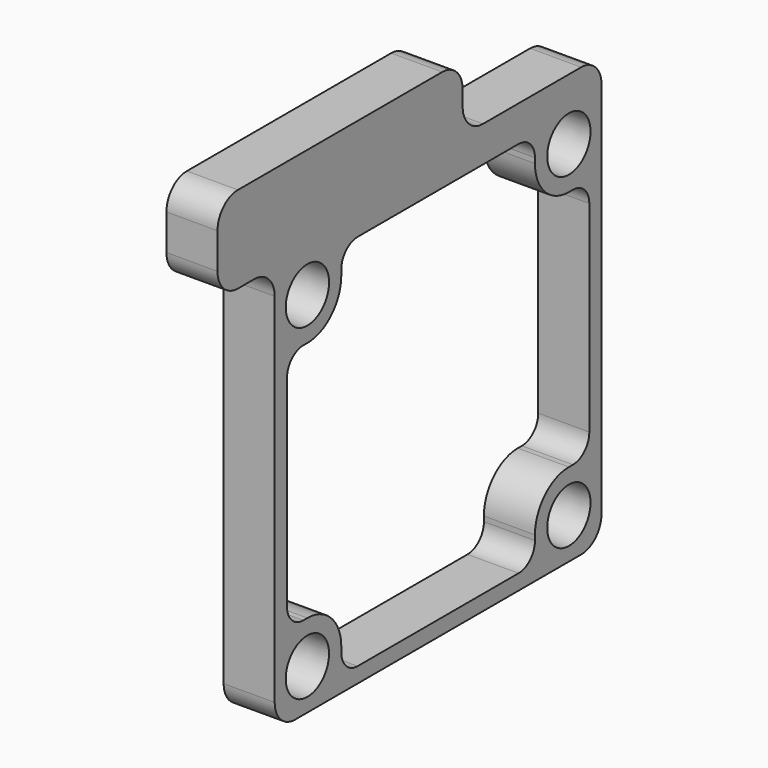
from build123d import *

# Parameters (mm, degrees)
F0_R     = 2.15
F0_W     = 17
F0_H     = 2
F0_W_2   = 23
F1_DEPTH = 5
F2_R     = 2.65
F3_DEPTH = 3.8
F3_TAPER = 1.5
F4_D     = 3.5
F5_R     = 2.5


with BuildPart() as f1:
    # F0 (on Right) → F1 (new body)
    with BuildSketch(Plane.YZ):
        Polygon((-20, -20), (20, -20), (20, 20), (3, 20), (-20, 20), align=None)
        with Locations((-16, -16)):
            Circle(F0_R, mode=Mode.SUBTRACT)
        with Locations((16, -16)):
            Circle(F0_R, mode=Mode.SUBTRACT)
        with BuildLine():
            Line((11.85, 16.5), (11.85, 16))
            ThreePointArc((11.85, 16), (13.0655068581, 13.0655068581), (16, 11.85))
            Line((16, 11.85), (16.5, 11.85))
            ThreePointArc((16.5, 11.85), (17.9142135624, 11.2642135624), (18.5, 9.85))
            Line((18.5, 9.85), (18.5, -9.85))
            ThreePointArc((18.5, -9.85), (17.9142135624, -11.2642135624), (16.5, -11.85))
            Line((16.5, -11.85), (16, -11.85))
            ThreePointArc((16, -11.85), (13.0655068581, -13.0655068581), (11.85, -16))
            Line((11.85, -16), (11.85, -16.5))
            ThreePointArc((11.85, -16.5), (11.2642135624, -17.9142135624), (9.85, -18.5))
            Line((9.85, -18.5), (-9.85, -18.5))
            ThreePointArc((-9.85, -18.5), (-11.2642135624, -17.9142135624), (-11.85, -16.5))
            Line((-11.85, -16.5), (-11.85, -16))
            ThreePointArc((-11.85, -16), (-13.0655068581, -13.0655068581), (-16, -11.85))
            Line((-16, -11.85), (-16.5, -11.85))
            ThreePointArc((-16.5, -11.85), (-17.9142135624, -11.2642135624), (-18.5, -9.85))
            Line((-18.5, -9.85), (-18.5, 9.85))
            ThreePointArc((-18.5, 9.85), (-17.9142135624, 11.2642135624), (-16.5, 11.85))
            Line((-16.5, 11.85), (-16, 11.85))
            ThreePointArc((-16, 11.85), (-13.0655068581, 13.0655068581), (-11.85, 16))
            Line((-11.85, 16), (-11.85, 16.5))
            ThreePointArc((-11.85, 16.5), (-11.2642135624, 17.9142135624), (-9.85, 18.5))
            Line((-9.85, 18.5), (9.85, 18.5))
            ThreePointArc((9.85, 18.5), (11.2642135624, 17.9142135624), (11.85, 16.5))
        make_face(mode=Mode.SUBTRACT)
        with Locations((-16, 16)):
            Circle(F0_R, mode=Mode.SUBTRACT)
        with Locations((16, 16)):
            Circle(F0_R, mode=Mode.SUBTRACT)
        with Locations((11.5, 21)):
            Rectangle(F0_W, F0_H)
        with Locations((-8.5, 21)):
            Rectangle(F0_W_2, F0_H)
        Polygon((-27, 20), (-20, 20), (-20, 22), (3, 22), (3, 28.5), (-27, 28.5), align=None)
        with Locations((-16, 16)):
            Circle(F0_R)
        with Locations((16, 16)):
            Circle(F0_R)
        with Locations((-16, -16)):
            Circle(F0_R)
        with Locations((16, -16)):
            Circle(F0_R)
    extrude(amount=F1_DEPTH)

    # F2 (on face) → F3 (cut)
    with BuildSketch(Plane.YZ.offset(5)):
        with Locations((-16, 16)):
            Circle(F2_R)
        with Locations((16, 16)):
            Circle(F2_R)
        with Locations((16, -16)):
            Circle(F2_R)
        with Locations((-16, -16)):
            Circle(F2_R)
    extrude(amount=-F3_DEPTH, taper=F3_TAPER, mode=Mode.SUBTRACT)

    # F4 (through all)
    with Locations(Plane(origin=(0, 0, 0), x_dir=(0, 1, 0), z_dir=(-1, 0, 0))):
        with Locations((-16, -16), (16, -16), (16, 16), (-16, 16)):
            Hole(F4_D / 2)

    # F5
    f5_edges = [f1.edges().sort_by_distance(p)[0] for p in [
        (2.5, 3, 22),
        (2.5, 3, 28.5),
        (2.5, 20, 22),
        (2.5, 20, -20),
        (2.5, -20, -20),
        (2.5, -20, 20),
        (2.5, -27, 20),
        (2.5, -27, 28.5),
    ]]
    fillet(f5_edges, radius=F5_R)


solid = f1.part
